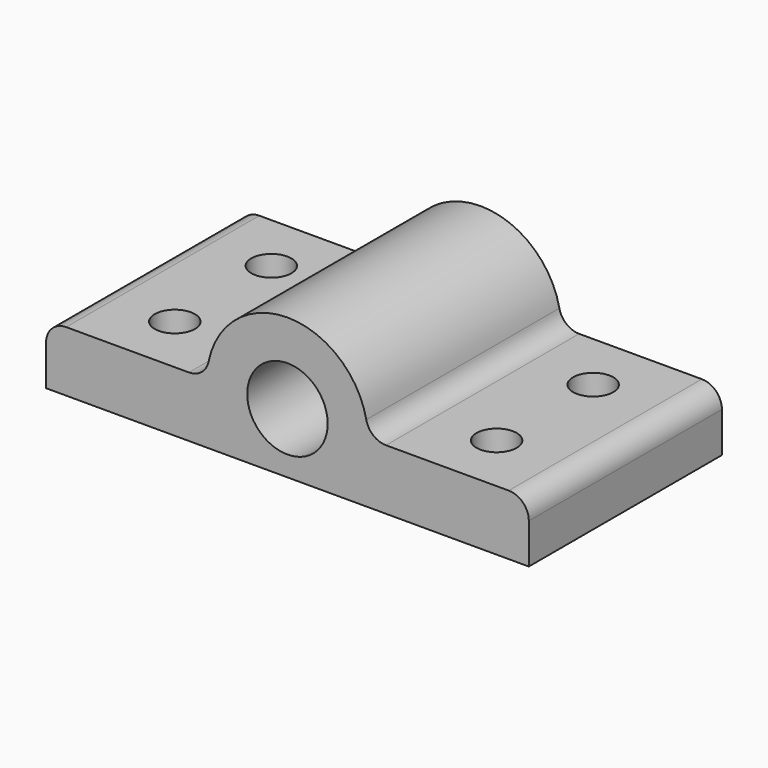
from build123d import *

# Parameters (mm, degrees)
F0_R     = 25.4
F1_DEPTH = 152.4
F2_R     = 12.7
F3_DEPTH = 25.4


with BuildPart() as f1:
    # F0 (on Front) → F1 (new body)
    with BuildSketch(Plane.XZ):
        with BuildLine():
            Line((-152.4, 25.4), (-152.4, 0))
            Line((-152.4, 0), (152.4, 0))
            Line((152.4, 0), (152.4, 25.4))
            ThreePointArc((152.4, 25.4), (148.680256, 34.380256), (139.7, 38.1))
            Line((139.7, 38.1), (62.217039, 38.1))
            ThreePointArc((62.217039, 38.1), (54.184854, 40.962622), (49.773632, 48.26))
            ThreePointArc((49.773632, 48.26), (0, 88.9), (-49.773632, 48.26))
            ThreePointArc((-49.773632, 48.26), (-54.184854, 40.962622), (-62.217039, 38.1))
            Line((-62.217039, 38.1), (-139.7, 38.1))
            ThreePointArc((-139.7, 38.1), (-148.680256, 34.380256), (-152.4, 25.4))
        make_face()
        with Locations((0, 38.1)):
            Circle(F0_R, mode=Mode.SUBTRACT)
    extrude(amount=-F1_DEPTH)

    # F2 (on face) → F3 (cut)
    with BuildSketch(Plane.XY.offset(38.1)):
        with Locations((-101.6, 114.3)):
            Circle(F2_R)
        with Locations((-101.6, 38.1)):
            Circle(F2_R)
        with Locations((101.6, 114.3)):
            Circle(F2_R)
        with Locations((101.6, 38.1)):
            Circle(F2_R)
    extrude(amount=-F3_DEPTH, mode=Mode.SUBTRACT)


solid = f1.part
